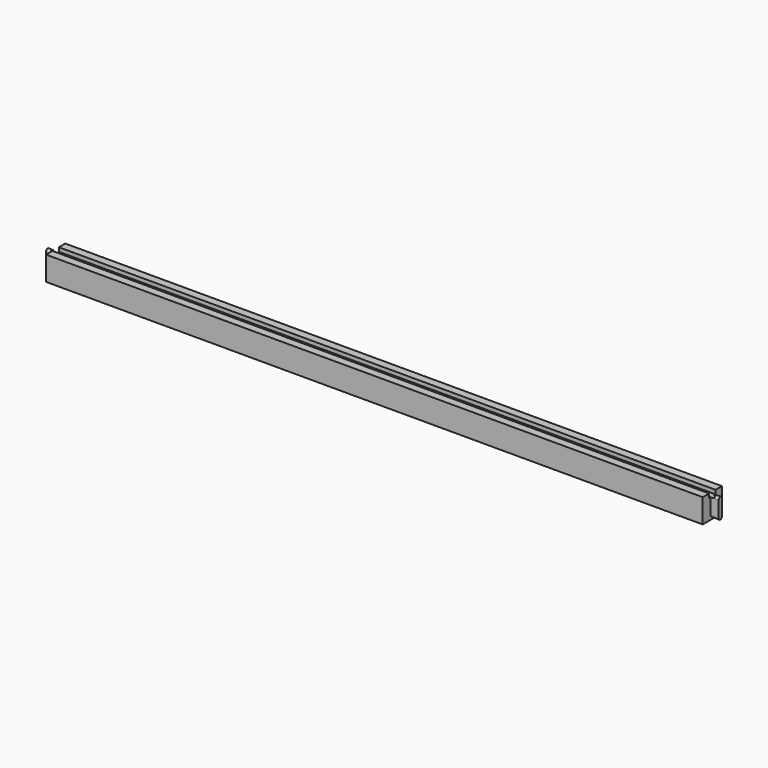
from build123d import *

# Parameters (mm, degrees)
F0_W     = 19.05
F0_H     = 19.05
F1_DEPTH = 520.7
F3_DEPTH = 6.35
F5_DEPTH = 6.35
F7_DEPTH = 3.175


with BuildPart() as f1:
    # F0 (on Right) → F1 (new body)
    with BuildSketch(Plane.YZ):
        with Locations((-9.525, 9.525)):
            Rectangle(F0_W, F0_H)
    extrude(amount=F1_DEPTH)

    # F2 (on face) → F3 (join)
    with BuildSketch(Plane.YZ.offset(520.7)):
        with BuildLine():
            ThreePointArc((-7.9375, 15.875), (-9.525, 17.4625), (-11.1125, 15.875))
            Line((-11.1125, 15.875), (-11.1125, 3.175))
            ThreePointArc((-11.1125, 3.175), (-9.525, 1.5875), (-7.9375, 3.175))
            Line((-7.9375, 3.175), (-7.9375, 15.875))
        make_face()
    extrude(amount=F3_DEPTH)

    # F4 (on face) → F5 (join)
    with BuildSketch(Plane(origin=(0, 0, 0), x_dir=(0, -1, 0), z_dir=(-1, 0, 0))):
        with BuildLine():
            ThreePointArc((11.1125, 15.875), (9.525, 17.4625), (7.9375, 15.875))
            Line((7.9375, 15.875), (7.9375, 3.175))
            ThreePointArc((7.9375, 3.175), (9.525, 1.5875), (11.1125, 3.175))
            Line((11.1125, 3.175), (11.1125, 15.875))
        make_face()
    extrude(amount=F5_DEPTH)

    # F6 (on face) → F7 (cut)
    with BuildSketch(Plane.XY.offset(19.05)):
        with BuildLine():
            ThreePointArc((0, -6.35), (-3.175, -9.525), (0, -12.7))
            Line((0, -12.7), (520.7, -12.7))
            ThreePointArc((520.7, -12.7), (523.875, -9.525), (520.7, -6.35))
            Line((520.7, -6.35), (0, -6.35))
        make_face()
    extrude(amount=-F7_DEPTH, mode=Mode.SUBTRACT)


solid = f1.part
